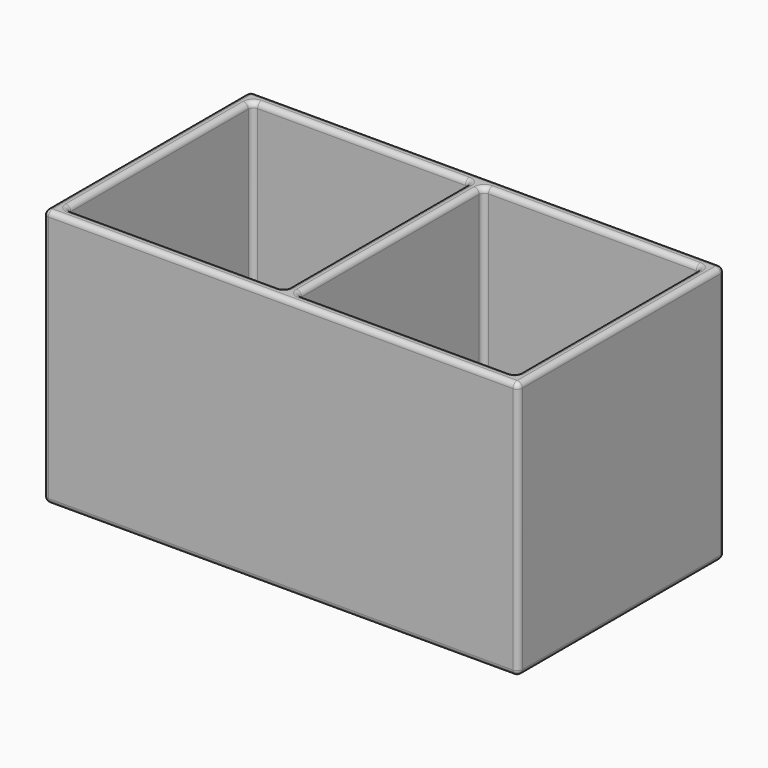
from build123d import *

# Parameters (mm, degrees)
SKETCH_W     = 184
SKETCH_H     = 100
PAD_DEPTH    = 100
SKETCH001_W  = 84.5
SKETCH001_H  = 90
POCKET_DEPTH = 95
FILLET_R     = 2


with BuildPart() as part:
    # Sketch → Pad (new body)
    with BuildSketch(Plane.XY):
        Rectangle(SKETCH_W, SKETCH_H)
    extrude(amount=PAD_DEPTH)

    # Sketch001 (on Face6 of Pad) → Pocket (cut)
    with BuildSketch(Plane.XY.offset(100)):
        with Locations((-44.75, 0)):
            Rectangle(SKETCH001_W, SKETCH001_H)
        with Locations((44.75, 0)):
            Rectangle(SKETCH001_W, SKETCH001_H)
    extrude(amount=-POCKET_DEPTH, mode=Mode.SUBTRACT)

    # Fillet
    fillet_edges = [part.edges().sort_by_distance(p)[0] for p in [
        (-92, 50, 50),
        (-92, -50, 50),
        (-92, 0, 0),
        (-92, 0, 100),
        (92, 50, 50),
        (0, 50, 0),
        (0, 50, 100),
        (92, -50, 50),
        (0, -50, 0),
        (0, -50, 100),
        (92, 0, 0),
        (92, 0, 100),
        (-87, 0, 100),
        (-44.75, -45, 100),
        (-2.5, 0, 100),
        (-44.75, 45, 100),
        (2.5, 0, 100),
        (44.75, -45, 100),
        (87, 0, 100),
        (44.75, 45, 100),
        (-87, 45, 52.5),
        (-87, -45, 52.5),
        (-87, 0, 5),
        (-2.5, -45, 52.5),
        (-44.75, -45, 5),
        (-2.5, 45, 52.5),
        (-2.5, 0, 5),
        (-44.75, 45, 5),
        (2.5, 45, 52.5),
        (2.5, -45, 52.5),
        (2.5, 0, 5),
        (87, -45, 52.5),
        (44.75, -45, 5),
        (87, 45, 52.5),
        (87, 0, 5),
        (44.75, 45, 5),
    ]]
    fillet(fillet_edges, radius=FILLET_R)


solid = part.part
